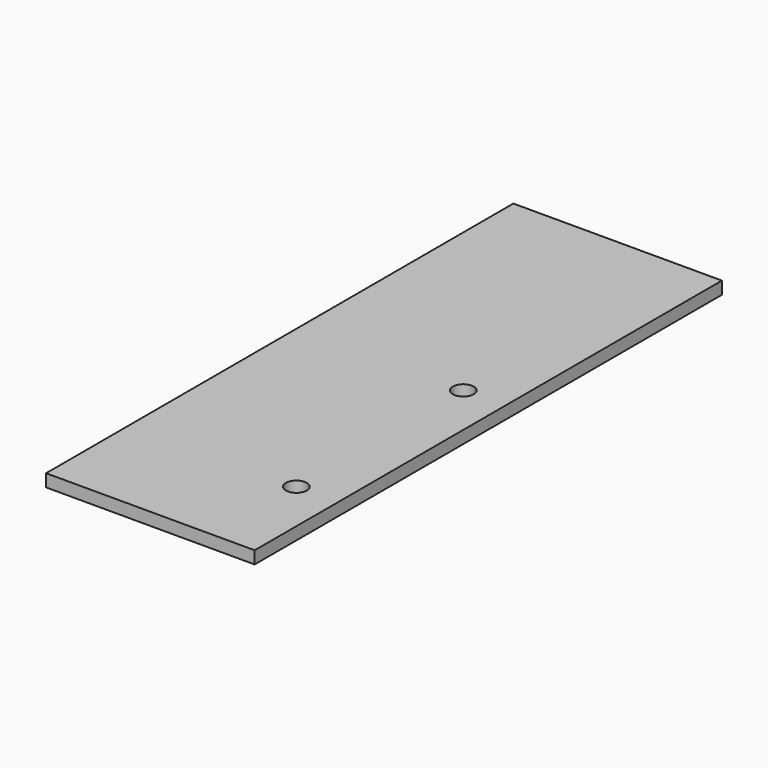
from build123d import *

# Parameters (mm, degrees)
F0_W     = 50
F0_H     = 140
F1_DEPTH = 3
F4_D     = 5


with BuildPart() as f1:
    # F0 (on Top) → F1 (new body)
    with BuildSketch(Plane.XY):
        with Locations((25, 70)):
            Rectangle(F0_W, F0_H)
    extrude(amount=F1_DEPTH)

    # F4 (through all)
    with Locations(Plane.XY.offset(3)):
        with Locations((40, 75), (40, 25)):
            Hole(F4_D / 2)


solid = f1.part
